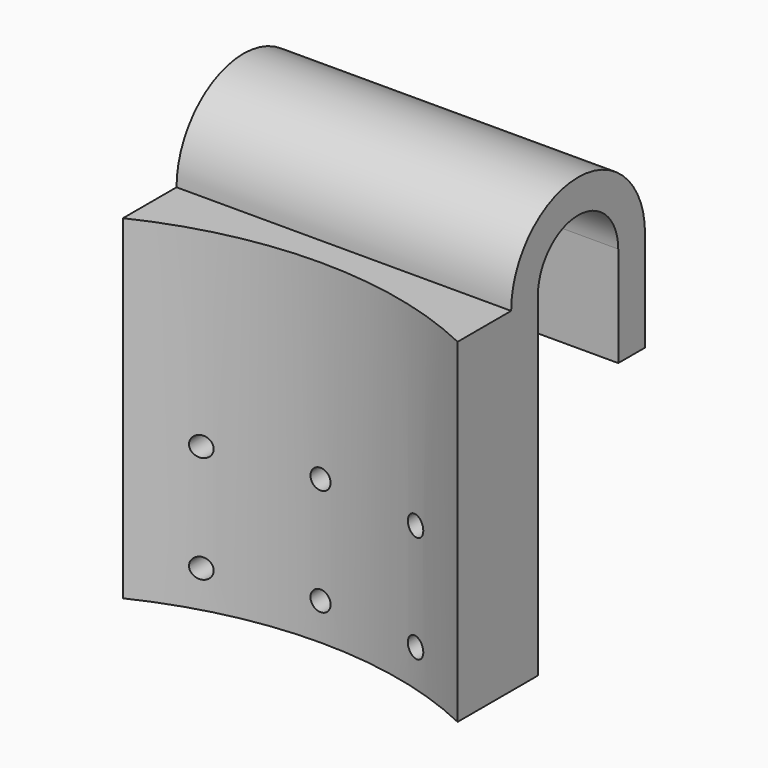
from build123d import *

# Parameters (mm, degrees)
F1_DEPTH = 50
F3_DEPTH = 50
F4_R     = 1.5
F5_DEPTH = 15.001


with BuildPart() as f1:
    # F0 (on Top) → F1 (new body)
    with BuildSketch(Plane.XY):
        with BuildLine():
            ThreePointArc((-25, -5.664544), (0, 0), (25, -5.664544))
            Line((25, -5.664544), (25, 9.335456))
            Line((25, 9.335456), (-25, 9.335456))
            Line((-25, 9.335456), (-25, -5.664544))
        make_face()
    extrude(amount=F1_DEPTH)

    # F2 (on face) → F3 (join, through all)
    with BuildSketch(Plane.YZ.offset(25)):
        with BuildLine():
            ThreePointArc((9.335456, 50), (16.835456, 57.5), (24.335456, 50))
            Line((24.335456, 50), (24.335456, 35))
            Line((24.335456, 35), (29.335456, 35))
            Line((29.335456, 35), (29.335456, 50))
            ThreePointArc((29.335456, 50), (16.835456, 62.5), (4.335456, 50))
            Line((4.335456, 50), (9.335456, 50))
        make_face()
    extrude(amount=-F3_DEPTH)

    # F4 (on face) → F5 (cut, through all)
    with BuildSketch(Plane(origin=(0, 9.335456, 0), x_dir=(-1, 0, 0), z_dir=(0, 1, 0))):
        with Locations((-16, 21.5)):
            Circle(F4_R)
        with Locations((0, 21.5)):
            Circle(F4_R)
        with Locations((16, 21.5)):
            Circle(F4_R)
        with Locations((16, 5.5)):
            Circle(F4_R)
        with Locations((0, 5.5)):
            Circle(F4_R)
        with Locations((-16, 5.5)):
            Circle(F4_R)
    extrude(amount=-F5_DEPTH, mode=Mode.SUBTRACT)


solid = f1.part
